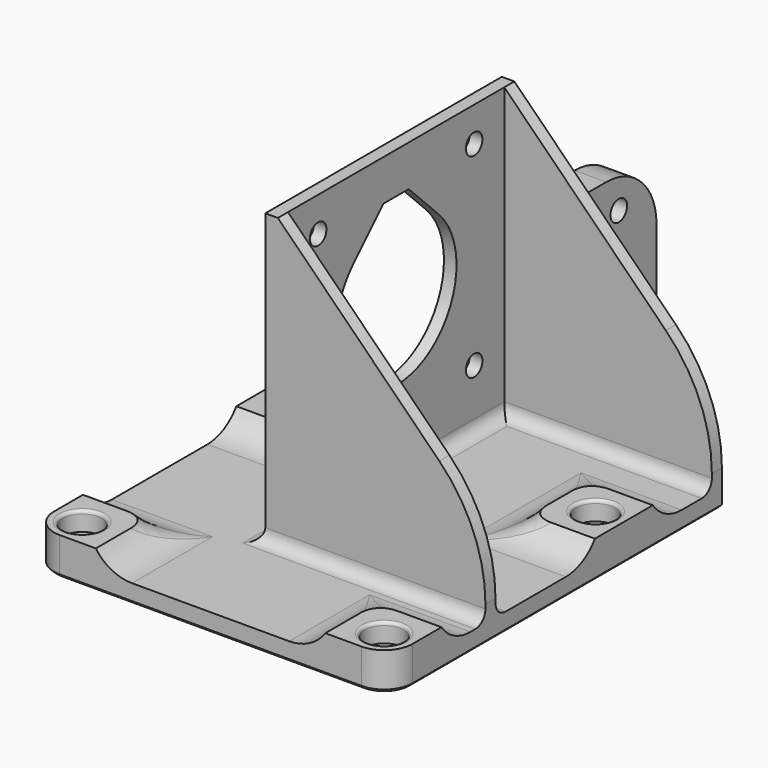
from build123d import *

# Parameters (mm, degrees)
SKETCH_R        = 1.65
PAD_DEPTH       = 10
POCKET_DEPTH    = 70.001
POCKET001_DEPTH = 57.001
FILLET_R        = 4
SKETCH003_R     = 3.1
POCKET002_DEPTH = 7
SKETCH004_W     = 60
SKETCH004_H     = 10
POCKET003_DEPTH = 57.001
PAD001_DEPTH    = 46
CHAMFER_SIZE    = 33
FILLET001_R     = 2
SKETCH006_R     = 1.65
POCKET004_DEPTH = 5
FILLET002_R     = 25
FILLET003_R     = 0.5
CHAMFER001_SIZE = 0.5
POCKET005_DEPTH = 5
FILLET004_R     = 2
SKETCH009_W     = 25
SKETCH009_H     = 30
SKETCH009_R     = 1.65
PAD002_DEPTH    = 5
FILLET005_R     = 10
CHAMFER002_SIZE = 5
FILLET006_R     = 3


with BuildPart() as part:
    # Sketch → Pad (new body)
    with BuildSketch(Plane.XY):
        with BuildLine():
            ThreePointArc((-28.5, -21), (-27.181981, -24.18198), (-24, -25.5))
            Line((-24, -25.5), (24, -25.5))
            ThreePointArc((24, -25.5), (27.181981, -24.18198), (28.5, -21))
            Line((28.5, -21), (28.5, 40.5))
            Line((24.5, 44.5), (28.5, 40.5))
            Line((-24.5, 44.5), (24.5, 44.5))
            Line((-28.5, 40.5), (-24.5, 44.5))
            Line((-28.5, -21), (-28.5, 40.5))
        make_face()
        with Locations((-24, 21)):
            Circle(SKETCH_R, mode=Mode.SUBTRACT)
        with Locations((24, 21)):
            Circle(SKETCH_R, mode=Mode.SUBTRACT)
        with Locations((-24, -21)):
            Circle(SKETCH_R, mode=Mode.SUBTRACT)
        with Locations((24, -21)):
            Circle(SKETCH_R, mode=Mode.SUBTRACT)
    extrude(amount=PAD_DEPTH)

    # Sketch001 → Pocket (cut, through all)
    with BuildSketch(Plane.XZ.offset(25.5)):
        with BuildLine():
            ThreePointArc((-12.5, 17), (-19.5, 10), (-12.5, 3))
            Line((-12.5, 3), (12.5, 3))
            ThreePointArc((12.5, 3), (19.5, 10), (12.5, 17))
            Line((-12.5, 17), (12.5, 17))
        make_face()
    extrude(amount=-POCKET_DEPTH, mode=Mode.SUBTRACT)

    # Sketch002 → Pocket001 (cut, through all)
    with BuildSketch(Plane.YZ.offset(28.5)):
        with BuildLine():
            ThreePointArc((-9.5, 17), (-16.5, 10), (-9.5, 3))
            Line((-9.5, 3), (9.5, 3))
            ThreePointArc((9.5, 3), (16.5, 10), (9.5, 17))
            Line((-9.5, 17), (9.5, 17))
        make_face()
        with BuildLine():
            ThreePointArc((32.5, 17), (25.5, 10), (32.5, 3))
            Line((32.5, 3), (51.5, 3))
            ThreePointArc((51.5, 3), (58.5, 10), (51.5, 17))
            Line((32.5, 17), (51.5, 17))
        make_face()
    extrude(amount=-POCKET001_DEPTH, mode=Mode.SUBTRACT)

    # Fillet
    fillet_edges = [part.edges().sort_by_distance(p)[0] for p in [
        (-17.022345, 14.022345, 4.65693),
        (-17.022345, 27.977655, 4.65693),
        (-17.022345, -14.022345, 4.65693),
        (17.022342, -14.022342, 4.656928),
        (17.022342, 27.977658, 4.656928),
        (17.022342, 14.022342, 4.656928),
    ]]
    fillet(fillet_edges, radius=FILLET_R)

    # Sketch003 → Pocket002 (cut)
    with BuildSketch(Plane.XY.offset(10)):
        with Locations((-24, 21)):
            Circle(SKETCH003_R)
        with Locations((24, 21)):
            Circle(SKETCH003_R)
        with Locations((-24, -21)):
            Circle(SKETCH003_R)
        with Locations((24, -21)):
            Circle(SKETCH003_R)
    extrude(amount=-POCKET002_DEPTH, mode=Mode.SUBTRACT)

    # Sketch004 → Pocket003 (cut, through all)
    with BuildSketch(Plane.YZ.offset(28.5)):
        with Locations((0, 11)):
            Rectangle(SKETCH004_W, SKETCH004_H)
    extrude(amount=-POCKET003_DEPTH, mode=Mode.SUBTRACT)

    # Sketch005 → Pad001 (new body)
    with BuildSketch(Plane.XY.offset(3)):
        Polygon((28.5, -6.5), (-6.5, -6.5), (-6.5, 40.5), (28.5, 40.5), (28.5, 38.5), (-4.5, 38.5), (-4.5, -4.5), (28.5, -4.5), align=None)
    extrude(amount=PAD001_DEPTH)

    # Chamfer
    chamfer_edges = [part.edges().sort_by_distance(p)[0] for p in [
        (28.5, -5.5, 49),
        (28.5, 39.5, 49),
    ]]
    chamfer(chamfer_edges, length=CHAMFER_SIZE)

    # Fillet001
    fillet001_edges = [part.edges().sort_by_distance(p)[0] for p in [
        (11, -6.5, 3),
        (12, 38.5, 3),
        (11, 40.5, 3),
        (-4.5, 17, 3),
        (12, -4.5, 3),
        (-6.5, 17, 3),
    ]]
    fillet(fillet001_edges, radius=FILLET001_R)

    # Sketch006 → Pocket004 (cut)
    with BuildSketch(Plane(origin=(-6.5, 0, 0), x_dir=(0, -1, 0), z_dir=(-1, 0, 0))):
        with Locations((-32.5, 43.5)):
            Circle(SKETCH006_R)
        with Locations((-1.5, 43.5)):
            Circle(SKETCH006_R)
        with Locations((-32.5, 12.5)):
            Circle(SKETCH006_R)
        with Locations((-1.5, 12.5)):
            Circle(SKETCH006_R)
        with BuildLine():
            ThreePointArc((-25.485282, 36.485281), (-17, 16), (-8.514718, 36.485281))
            Line((-14.500001, 42.470563), (-8.514718, 36.485281))
            Line((-19.500001, 42.470563), (-14.500001, 42.470563))
            Line((-25.485282, 36.485281), (-19.500001, 42.470563))
        make_face()
    extrude(amount=-POCKET004_DEPTH, mode=Mode.SUBTRACT)

    # Fillet002
    fillet002_edges = [part.edges().sort_by_distance(p)[0] for p in [
        (28.5, -5.5, 16),
        (28.5, 39.5, 16),
    ]]
    fillet(fillet002_edges, radius=FILLET002_R)

    # Fillet003
    fillet003_edges = [part.edges().sort_by_distance(p)[0] for p in [
        (-27.1, 21, 6),
        (20.9, 21, 6),
        (20.9, -21, 6),
        (-27.1, -21, 6),
    ]]
    fillet(fillet003_edges, radius=FILLET003_R)

    # Chamfer001
    chamfer001_edges = [part.edges().sort_by_distance(p)[0] for p in [
        (-27.181981, -24.18198, 0),
        (0, -25.5, 0),
        (27.181981, -24.18198, 0),
        (28.5, 9.75, 0),
        (26.5, 42.5, 0),
        (0, 44.5, 0),
        (-26.5, 42.5, 0),
        (-28.5, 9.75, 0),
        (22.35, -21, 0),
        (-25.65, -21, 0),
        (22.35, 21, 0),
        (-25.65, 21, 0),
    ]]
    chamfer(chamfer001_edges, length=CHAMFER001_SIZE)

    # Sketch007 → Pocket005 (cut)
    with BuildSketch(Plane.XY.offset(3)):
        with BuildLine():
            ThreePointArc((-17.5, 32.6), (-12.550245, 34.65026), (-10.5, 39.600021))
            Line((-10.5, 45.5), (-10.5, 39.600021))
            Line((-29.5, 45.5), (-10.5, 45.5))
            Line((-29.5, 32.6), (-29.5, 45.5))
            Line((-17.5, 32.6), (-29.5, 32.6))
        make_face()
    extrude(amount=-POCKET005_DEPTH, mode=Mode.SUBTRACT)

    # Fillet004
    fillet004_edges = [part.edges().sort_by_distance(p)[0] for p in [
        (-10.5, 44.5, 1.75),
        (-28.5, 32.6, 1.75),
    ]]
    fillet(fillet004_edges, radius=FILLET004_R)

    # Sketch009 → Pad002 (new body)
    with BuildSketch(Plane(origin=(-6.5, 0, 0), x_dir=(0, -1, 0), z_dir=(-1, 0, 0))):
        with Locations((-52.5, 15)):
            Rectangle(SKETCH009_W, SKETCH009_H)
        with Locations((-57.5, 25)):
            Circle(SKETCH009_R, mode=Mode.SUBTRACT)
        with Locations((-47.5, 25)):
            Circle(SKETCH009_R, mode=Mode.SUBTRACT)
        with Locations((-57.5, 5)):
            Circle(SKETCH009_R, mode=Mode.SUBTRACT)
        with Locations((-47.5, 5)):
            Circle(SKETCH009_R, mode=Mode.SUBTRACT)
        with Locations((-57.5, 15)):
            Circle(SKETCH009_R, mode=Mode.SUBTRACT)
        with Locations((-47.5, 15)):
            Circle(SKETCH009_R, mode=Mode.SUBTRACT)
    extrude(amount=-PAD002_DEPTH)

    # Fillet005
    fillet005_edges = [part.edges().sort_by_distance(p)[0] for p in [
        (-4, 65, 30),
        (-4, 40.5, 30),
    ]]
    fillet(fillet005_edges, radius=FILLET005_R)

    # Chamfer002
    chamfer002_edges = [part.edges().sort_by_distance(p)[0] for p in [
        (-4, 65, 0),
    ]]
    chamfer(chamfer002_edges, length=CHAMFER002_SIZE)

    # Fillet006
    fillet006_edges = [part.edges().sort_by_distance(p)[0] for p in [
        (-1.5, 40.5, 17.5),
    ]]
    fillet(fillet006_edges, radius=FILLET006_R)


solid = part.part
